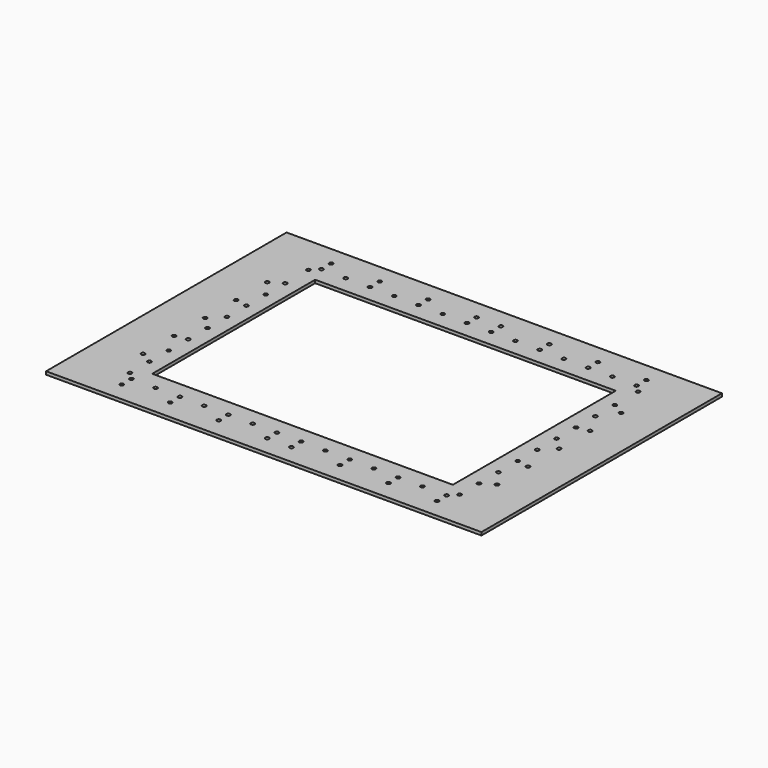
from build123d import *

# Parameters (mm, degrees)
F0_W     = 138.9888
F0_H     = 419.989
F1_DEPTH = 6.35
F3_D     = 7.874


with BuildPart() as f1:
    # F0 (on Top) → F1 (new body)
    with BuildSketch(Plane.XY):
        with Locations((69.4944, 309.9943)):
            Rectangle(F0_W, F0_H)
        Polygon((0, 619.9886), (0, 519.9888), (138.9888, 519.9888), (759.0028, 519.9888), (897.9916, 519.9888), (897.9916, 619.9886), align=None)
        with Locations((828.4972, 309.9943)):
            Rectangle(F0_W, F0_H)
        Polygon((0, 99.9998), (0, 0), (897.9916, 0), (897.9916, 99.9998), (759.0028, 99.9998), (138.9888, 99.9998), align=None)
    extrude(amount=F1_DEPTH)

    # F3 (through all)
    with Locations(Plane.XY.offset(6.35)):
        with Locations((108.9914, 539.9786), (124.0028, 554.99), (174.0154, 554.99), (124.0028, 579.9836), (224.028, 579.9836), (224.028, 554.99), (274.0406, 554.99), (324.0532, 579.9836), (324.0532, 554.99), (374.0658, 554.99), (424.0784, 579.9836), (424.0784, 554.99), (474.091, 579.9836), (474.091, 554.99), (524.1036, 554.99), (574.1162, 579.9836), (574.1162, 554.99), (624.1288, 554.99), (674.1414, 579.9836), (674.1414, 554.99), (789.0002, 539.9786), (774.1666, 579.9836), (774.1666, 554.99), (724.154, 554.99), (789.0002, 480.1108), (813.9938, 465.074), (789.0002, 130.0226), (813.9938, 145.034), (789.0002, 180.0352), (789.0002, 230.0478), (813.9938, 225.044), (789.0002, 280.0604), (813.9938, 305.054), (789.0002, 330.073), (789.0002, 380.0856), (813.9938, 385.064), (789.0002, 430.0982), (789.0002, 80.01), (774.1666, 64.9986), (774.1666, 40.005), (724.154, 64.9986), (674.1414, 64.9986), (674.1414, 40.005), (83.9978, 465.074), (108.9914, 480.1108), (108.9914, 430.0982), (83.9978, 385.064), (108.9914, 380.0856), (108.9914, 330.073), (83.9978, 305.054), (108.9914, 280.0604), (83.9978, 225.044), (108.9914, 230.0478), (108.9914, 180.0352), (83.9978, 145.034), (108.9914, 130.0226), (108.9914, 80.01), (124.0028, 64.9986), (124.0028, 40.005), (174.0154, 64.9986), (224.028, 40.005), (224.028, 64.9986), (274.0406, 64.9986), (324.0532, 40.005), (324.0532, 64.9986), (374.0658, 64.9986), (424.0784, 64.9986), (424.0784, 40.005), (474.091, 64.9986), (474.091, 40.005), (524.1036, 64.9986), (574.1162, 64.9986), (624.1288, 64.9986), (574.1162, 40.005)):
            Hole(F3_D / 2)


solid = f1.part
